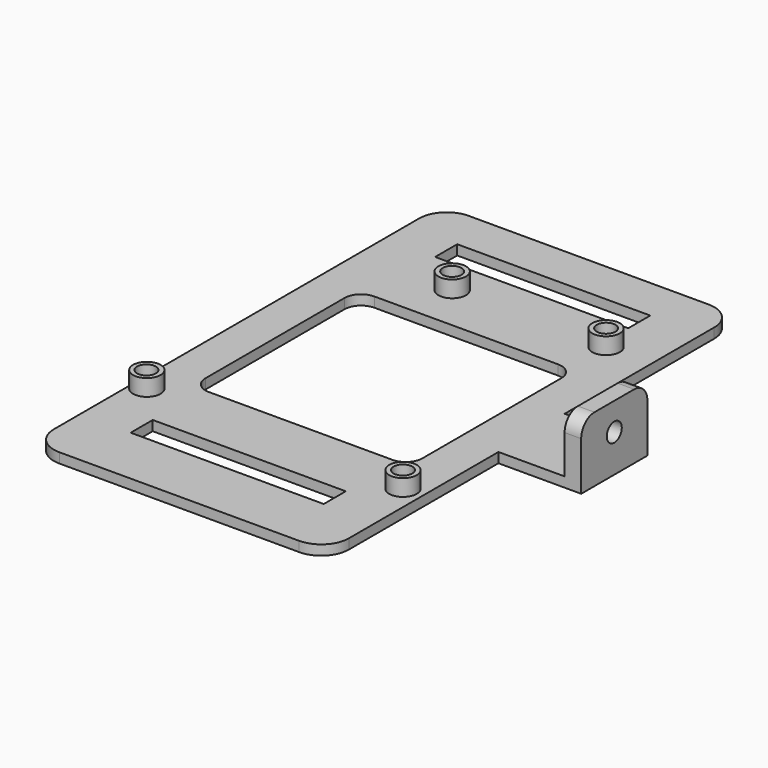
from build123d import *

# Parameters (mm, degrees)
SKETCH_W        = 53.5
SKETCH_H        = 92.8
PAD_DEPTH       = 1.8
SKETCH001_R     = 2.5
PAD001_DEPTH    = 3
SKETCH002_R     = 1.7
POCKET_DEPTH    = 5
SKETCH003_W     = 15
SKETCH003_H     = 1.8
PAD002_DEPTH    = 15
SKETCH004_W     = 39.320262
SKETCH004_H     = 37.514924
POCKET001_DEPTH = 5
FILLET_R        = 5
FILLET001_R     = 5
SKETCH005_W     = 35
SKETCH005_H     = 5
POCKET002_DEPTH = 5
SKETCH006_W     = 3
SKETCH006_H     = 15
PAD003_DEPTH    = 10
SKETCH007_R     = 1.7
POCKET003_DEPTH = 5
FILLET002_R     = 5
FILLET003_R     = 5
FILLET004_R     = 3
FILLET005_R     = 3
FILLET006_R     = 3
FILLET007_R     = 3
FILLET008_R     = 3
FILLET009_R     = 3


with BuildPart() as part:
    # Sketch → Pad (new body)
    with BuildSketch(Plane.XY):
        with Locations((0.1, 0)):
            Rectangle(SKETCH_W, SKETCH_H)
    extrude(amount=PAD_DEPTH)

    # Sketch001 (on Face6 of Pad) → Pad001 (join)
    with BuildSketch(Plane.XY.offset(1.8)):
        with Locations((-9.25, 27.14)):
            Circle(SKETCH001_R)
        with Locations((18.65, 27.14)):
            Circle(SKETCH001_R)
        with Locations((-24.132207, -23.46)):
            Circle(SKETCH001_R)
        with Locations((23.35, -24.76)):
            Circle(SKETCH001_R)
    extrude(amount=PAD001_DEPTH)

    # Sketch002 (on Face12 of Pad001) → Pocket (cut)
    with BuildSketch(Plane.XY.offset(4.8)):
        with Locations((-24.174742, -23.495716)):
            Circle(SKETCH002_R)
        with Locations((-9.25, 27.14)):
            Circle(SKETCH002_R)
        with Locations((18.65, 27.14)):
            Circle(SKETCH002_R)
        with Locations((23.35, -24.764911)):
            Circle(SKETCH002_R)
    extrude(amount=-POCKET_DEPTH, mode=Mode.SUBTRACT)

    # Sketch003 (on Face3 of Pocket) → Pad002 (join)
    with BuildSketch(Plane.YZ.offset(26.85)):
        with Locations((0, 0.9)):
            Rectangle(SKETCH003_W, SKETCH003_H)
    extrude(amount=PAD002_DEPTH)

    # Sketch004 (on Face5 of Pad002) → Pocket001 (cut)
    with BuildSketch(Plane.XY.offset(1.8)):
        Rectangle(SKETCH004_W, SKETCH004_H)
    extrude(amount=-POCKET001_DEPTH, mode=Mode.SUBTRACT)

    # Fillet
    fillet_edges = [part.edges().sort_by_distance(p)[0] for p in [
        (-26.65, 46.4, 0.9),
    ]]
    fillet(fillet_edges, radius=FILLET_R)

    # Fillet001
    fillet001_edges = [part.edges().sort_by_distance(p)[0] for p in [
        (26.85, -46.4, 0.9),
    ]]
    fillet(fillet001_edges, radius=FILLET001_R)

    # Sketch005 → Pocket002 (cut)
    with BuildSketch(Plane.XY.offset(1.8)):
        with Locations((0, -32.91241)):
            Rectangle(SKETCH005_W, SKETCH005_H)
        with Locations((0, 36.086824)):
            Rectangle(SKETCH005_W, SKETCH005_H)
    extrude(amount=-POCKET002_DEPTH, mode=Mode.SUBTRACT)

    # Sketch006 (on Face18 of Pocket001) → Pad003 (join)
    with BuildSketch(Plane.XY.offset(1.8)):
        with Locations((40.35, 0)):
            Rectangle(SKETCH006_W, SKETCH006_H)
    extrude(amount=PAD003_DEPTH)

    # Sketch007 (on Face42 of Pad003) → Pocket003 (cut)
    with BuildSketch(Plane(origin=(38.85, 0, 0), x_dir=(0, -1, 0), z_dir=(-1, 0, 0))):
        with Locations((0, 6.8)):
            Circle(SKETCH007_R)
    extrude(amount=-POCKET003_DEPTH, mode=Mode.SUBTRACT)

    # Fillet002
    fillet002_edges = [part.edges().sort_by_distance(p)[0] for p in [
        (-26.65, -46.4, 0.9),
    ]]
    fillet(fillet002_edges, radius=FILLET002_R)

    # Fillet003
    fillet003_edges = [part.edges().sort_by_distance(p)[0] for p in [
        (26.85, 46.4, 0.9),
    ]]
    fillet(fillet003_edges, radius=FILLET003_R)

    # Fillet004
    fillet004_edges = [part.edges().sort_by_distance(p)[0] for p in [
        (40.35, -7.5, 11.8),
    ]]
    fillet(fillet004_edges, radius=FILLET004_R)

    # Fillet005
    fillet005_edges = [part.edges().sort_by_distance(p)[0] for p in [
        (40.35, 7.5, 11.8),
    ]]
    fillet(fillet005_edges, radius=FILLET005_R)

    # Fillet006
    fillet006_edges = [part.edges().sort_by_distance(p)[0] for p in [
        (19.660131, 18.757462, 0.9),
    ]]
    fillet(fillet006_edges, radius=FILLET006_R)

    # Fillet007
    fillet007_edges = [part.edges().sort_by_distance(p)[0] for p in [
        (-19.660131, 18.757462, 0.9),
    ]]
    fillet(fillet007_edges, radius=FILLET007_R)

    # Fillet008
    fillet008_edges = [part.edges().sort_by_distance(p)[0] for p in [
        (19.660131, -18.757462, 0.9),
    ]]
    fillet(fillet008_edges, radius=FILLET008_R)

    # Fillet009
    fillet009_edges = [part.edges().sort_by_distance(p)[0] for p in [
        (-19.660131, -18.757462, 0.9),
    ]]
    fillet(fillet009_edges, radius=FILLET009_R)


solid = part.part
